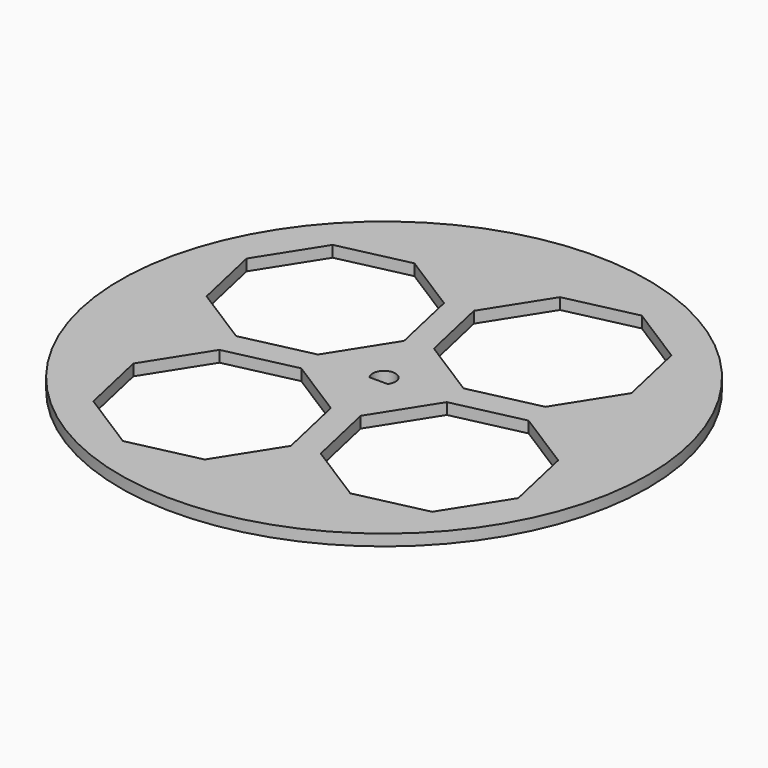
from build123d import *

# Parameters (mm, degrees)
F0_R     = 70
F0_R_2   = 3
F1_DEPTH = 1.5
F2_W     = 5.721064
F2_H     = 4.439099
F3_DEPTH = 1.5


with BuildPart() as f1:
    # F0 (on Top) → F1 (new body, symmetric)
    with BuildSketch(Plane.XY):
        with Locations((0.0566, 0.495772)):
            Circle(F0_R)
        Polygon((-40.302304, -45.432237), (-44.423218, -27.031538), (-34.325885, -11.106352), (-15.925186, -6.985438), (0, -17.082771), (4.120914, -35.483471), (-5.976419, -51.408656), (-24.377118, -55.52957), align=None, mode=Mode.SUBTRACT)
        Polygon((45.432237, -40.302304), (27.031538, -44.423218), (11.106352, -34.325885), (6.985438, -15.925186), (17.082771, 0), (35.483471, 4.120914), (51.408656, -5.976419), (55.52957, -24.377118), align=None, mode=Mode.SUBTRACT)
        Polygon((-45.432237, 40.302304), (-27.031538, 44.423218), (-11.106352, 34.325885), (-6.985438, 15.925186), (-17.082771, 0), (-35.483471, -4.120914), (-51.408656, 5.976419), (-55.52957, 24.377118), align=None, mode=Mode.SUBTRACT)
        with Locations((0.0566, 0.495772)):
            Circle(F0_R_2, mode=Mode.SUBTRACT)
        Polygon((0, 17.082771), (-4.120914, 35.483471), (5.976419, 51.408656), (24.377118, 55.52957), (40.302304, 45.432237), (44.423218, 27.031538), (34.325885, 11.106352), (15.925186, 6.985438), align=None, mode=Mode.SUBTRACT)
    extrude(amount=F1_DEPTH, both=True)

    # F2 (on Top) → F3 (join, symmetric)
    with BuildSketch(Plane.XY):
        with Locations((-0.025896, -3.533996)):
            Rectangle(F2_W, F2_H)
    extrude(amount=F3_DEPTH, both=True)


solid = f1.part
